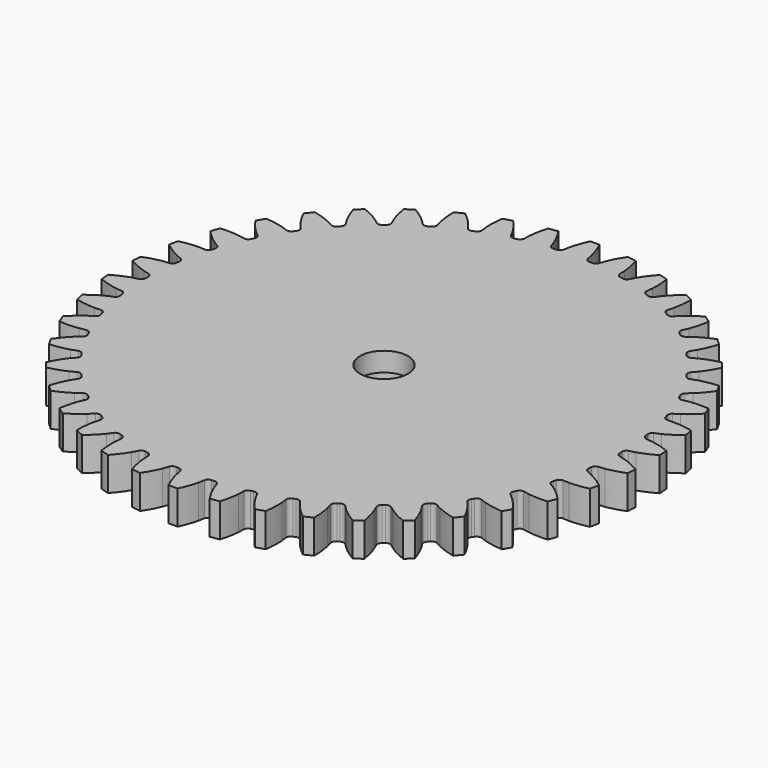
from build123d import *

# Parameters (mm, degrees)
EXTRUDE002_DEPTH                          = 3
EXTRUDE002_ONTO_SKETCH001_PLACEMENT_ANGLE = 4.25
CYLINDER008_R                             = 5
CYLINDER008_DEPTH                         = 10
EXTRUDE001_DEPTH                          = 7
EXTRUDE001_PLACEMENT_ANGLE                = 4.25
CUT002_PLACEMENT_ANGLE                    = 180


with BuildPart() as extrude002:
    # Sketch001 as drawn → Extrude002 (new)
    with BuildSketch(Plane.XY):
        with BuildLine():
            Line((0, -7), (30, -3.5))
            ThreePointArc((30, -3.5), (33.5, 0), (30, 3.5))
            Line((0, 7), (30, 3.5))
            ThreePointArc((0, 7), (-7, 0), (0, -7))
        make_face()
    extrude(amount=-EXTRUDE002_DEPTH)


with BuildPart() as extrude002_1:
    # Extrude002 onto Sketch001 placement: moved
    add(extrude002.part.moved(Location((79.5, 0, 45))).rotate(Axis((79.5, 0, 45), (0, 0, 1)), EXTRUDE002_ONTO_SKETCH001_PLACEMENT_ANGLE))


with BuildPart() as cylinder008:
    # Cylinder008 → Cylinder008 (new body)
    with BuildSketch(Plane(origin=(79.5, 0, 36.5), x_dir=(1, 0, 0), z_dir=(0, 0, 1))):
        Circle(CYLINDER008_R)
    extrude(amount=CYLINDER008_DEPTH)


with BuildPart() as pan_gear:
    # InvoluteGear003 → Extrude001 (new body)
    with BuildSketch(Plane.XY):
        with BuildLine():
            add(Edge.make_bspline(
                [(49.935412, -2.540601), (50.258673, -2.50404), (50.696663, -2.434919), (51.244037, -2.305344)],
                knots=[0, 0, 0, 0, 1, 1, 1, 1], degree=3))
            add(Edge.make_bspline(
                [(51.244037, -2.305344), (52.193371, -2.080339), (53.460774, -1.67639), (54.993062, -0.9546)],
                knots=[0, 0, 0, 0, 1, 1, 1, 1], degree=3))
            ThreePointArc((54.993062, -0.9546), (55.001347, 0), (54.993062, 0.9546))
            add(Edge.make_bspline(
                [(54.993062, 0.9546), (53.460774, 1.67639), (52.193371, 2.080339), (51.244037, 2.305344)],
                knots=[0, 0, 0, 0, 1, 1, 1, 1], degree=3))
            add(Edge.make_bspline(
                [(51.244037, 2.305344), (50.696663, 2.434919), (50.258673, 2.50404), (49.935569, 2.540575)],
                knots=[0, 0, 0, 0, 1, 1, 1, 1], degree=3))
            ThreePointArc((49.935569, 2.540575), (49.449291, 2.871554), (49.25592, 3.427092))
            ThreePointArc((49.25592, 3.427092), (49.236937, 3.689798), (49.216554, 3.9524))
            ThreePointArc((49.216554, 3.9524), (49.324919, 4.530492), (49.756331, 4.930262))
            add(Edge.make_bspline(
                [(49.756331, 4.930262), (50.070533, 5.014594), (50.493329, 5.148223), (51.015277, 5.357932)],
                knots=[0, 0, 0, 0, 1, 1, 1, 1], degree=3))
            add(Edge.make_bspline(
                [(51.015277, 5.357932), (51.920473, 5.721915), (53.113514, 6.310249), (54.521111, 7.252352)],
                knots=[0, 0, 0, 0, 1, 1, 1, 1], degree=3))
            ThreePointArc((54.521111, 7.252352), (54.387027, 8.197525), (54.236559, 9.140229))
            add(Edge.make_bspline(
                [(54.236559, 9.140229), (52.613808, 9.625581), (51.300356, 9.836122), (50.32809, 9.917123)],
                knots=[0, 0, 0, 0, 1, 1, 1, 1], degree=3))
            add(Edge.make_bspline(
                [(50.32809, 9.917123), (49.767517, 9.963669), (49.324118, 9.966739), (48.999177, 9.954709)],
                knots=[0, 0, 0, 0, 1, 1, 1, 1], degree=3))
            ThreePointArc((48.999177, 9.954709), (48.469, 10.209516), (48.194991, 10.730028))
            ThreePointArc((48.194991, 10.730028), (48.137066, 10.986971), (48.077771, 11.243602))
            ThreePointArc((48.077771, 11.243602), (48.098766, 11.831387), (48.465777, 12.290991))
            add(Edge.make_bspline(
                [(48.465777, 12.290991), (48.7639, 12.421211), (49.162058, 12.616361), (49.64692, 12.901521)],
                knots=[0, 0, 0, 0, 1, 1, 1, 1], degree=3))
            add(Edge.make_bspline(
                [(49.64692, 12.901521), (50.487757, 13.39635), (51.579786, 14.155927), (52.831248, 15.2973)],
                knots=[0, 0, 0, 0, 1, 1, 1, 1], degree=3))
            ThreePointArc((52.831248, 15.2973), (52.557791, 16.211932), (52.268501, 17.12168))
            add(Edge.make_bspline(
                [(52.268501, 17.12168), (50.591537, 17.359752), (49.261375, 17.372182), (48.287896, 17.307369)],
                knots=[0, 0, 0, 0, 1, 1, 1, 1], degree=3))
            add(Edge.make_bspline(
                [(48.287896, 17.307369), (47.726648, 17.269846), (47.287743, 17.206797), (46.968224, 17.146472)],
                knots=[0, 0, 0, 0, 1, 1, 1, 1], degree=3))
            ThreePointArc((46.968224, 17.146472), (46.405992, 17.319413), (46.057465, 17.793273))
            ThreePointArc((46.057465, 17.793273), (45.961891, 18.038713), (45.86501, 18.28364))
            ThreePointArc((45.86501, 18.28364), (45.798166, 18.86799), (46.092577, 19.37716))
            add(Edge.make_bspline(
                [(46.092577, 19.37716), (46.367962, 19.550359), (46.732587, 19.802672), (47.169533, 20.156911)],
                knots=[0, 0, 0, 0, 1, 1, 1, 1], degree=3))
            add(Edge.make_bspline(
                [(47.169533, 20.156911), (47.927228, 20.771534), (48.893851, 21.685385), (49.961223, 23.00053)],
                knots=[0, 0, 0, 0, 1, 1, 1, 1], degree=3))
            ThreePointArc((49.961223, 23.00053), (49.554501, 23.86419), (49.132851, 24.720661))
            add(Edge.make_bspline(
                [(49.132851, 24.720661), (47.439134, 24.706135), (46.121977, 24.520176), (45.169031, 24.310998)],
                knots=[0, 0, 0, 0, 1, 1, 1, 1], degree=3))
            add(Edge.make_bspline(
                [(45.169031, 24.310998), (44.619643, 24.190244), (44.195038, 24.062483), (43.888079, 23.95521)],
                knots=[0, 0, 0, 0, 1, 1, 1, 1], degree=3))
            ThreePointArc((43.888079, 23.95521), (43.306351, 24.042424), (42.891091, 24.459046))
            ThreePointArc((42.891091, 24.459046), (42.760004, 24.6875), (42.6277, 24.915252))
            ThreePointArc((42.6277, 24.915252), (42.47451, 25.483112), (42.689745, 26.030476))
            add(Edge.make_bspline(
                [(42.689745, 26.030476), (42.936241, 26.242784), (43.259188, 26.546623), (43.638457, 26.962029)],
                knots=[0, 0, 0, 0, 1, 1, 1, 1], degree=3))
            add(Edge.make_bspline(
                [(43.638457, 26.962029), (44.296084, 27.682716), (45.115708, 28.730428), (45.975146, 30.189967)],
                knots=[0, 0, 0, 0, 1, 1, 1, 1], degree=3))
            ThreePointArc((45.975146, 30.189967), (45.444246, 30.983362), (44.899655, 31.767423))
            add(Edge.make_bspline(
                [(44.899655, 31.767423), (43.22702, 31.500624), (41.95229, 31.12043), (41.041164, 30.771559)],
                knots=[0, 0, 0, 0, 1, 1, 1, 1], degree=3))
            add(Edge.make_bspline(
                [(41.041164, 30.771559), (40.51591, 30.570272), (40.115089, 30.380654), (39.827547, 30.228829)],
                knots=[0, 0, 0, 0, 1, 1, 1, 1], degree=3))
            ThreePointArc((39.827547, 30.228829), (39.239317, 30.228367), (38.766602, 30.578444))
            ThreePointArc((38.766602, 30.578444), (38.602929, 30.784809), (38.438159, 30.990298))
            ThreePointArc((38.438159, 30.990298), (38.202044, 31.528984), (38.333295, 32.102313))
            add(Edge.make_bspline(
                [(38.333295, 32.102313), (38.545394, 32.348988), (38.819449, 32.697566), (39.13257, 33.16486)],
                knots=[0, 0, 0, 0, 1, 1, 1, 1], degree=3))
            add(Edge.make_bspline(
                [(39.13257, 33.16486), (39.675439, 33.975511), (40.329755, 35.13368), (40.96206, 36.70501)],
                knots=[0, 0, 0, 0, 1, 1, 1, 1], degree=3))
            ThreePointArc((40.96206, 36.70501), (40.31884, 37.410417), (39.663474, 38.104553))
            add(Edge.make_bspline(
                [(39.663474, 38.104553), (38.049286, 37.591441), (36.845458, 37.025505), (35.996505, 36.544734)],
                knots=[0, 0, 0, 0, 1, 1, 1, 1], degree=3))
            add(Edge.make_bspline(
                [(35.996505, 36.544734), (35.507118, 36.26741), (35.139035, 36.020171), (34.877333, 35.827186)],
                knots=[0, 0, 0, 0, 1, 1, 1, 1], degree=3))
            ThreePointArc((34.877333, 35.827186), (34.295742, 35.739058), (33.77613, 36.01477))
            ThreePointArc((33.77613, 36.01477), (33.583529, 36.194436), (33.389972, 36.373072))
            ThreePointArc((33.389972, 36.373072), (33.076208, 36.870551), (33.120542, 37.457038))
            add(Edge.make_bspline(
                [(33.120542, 37.457038), (33.293508, 37.73257), (33.512549, 38.1181), (33.752525, 38.626843)],
                knots=[0, 0, 0, 0, 1, 1, 1, 1], degree=3))
            add(Edge.make_bspline(
                [(33.752525, 38.626843), (34.168509, 39.50935), (34.642901, 40.752104), (35.03395, 42.400124)],
                knots=[0, 0, 0, 0, 1, 1, 1, 1], degree=3))
            ThreePointArc((35.03395, 42.400124), (34.292779, 43.001785), (33.541277, 43.590491))
            add(Edge.make_bspline(
                [(33.541277, 43.590491), (32.021593, 42.842528), (30.91556, 42.103491), (30.147744, 41.50156)],
                knots=[0, 0, 0, 0, 1, 1, 1, 1], degree=3))
            add(Edge.make_bspline(
                [(30.147744, 41.50156), (29.705156, 41.154395), (29.378033, 40.855057), (29.148017, 40.625222)],
                knots=[0, 0, 0, 0, 1, 1, 1, 1], degree=3))
            ThreePointArc((29.148017, 40.625222), (28.586057, 40.451397), (28.031156, 40.646586))
            ThreePointArc((28.031156, 40.646586), (27.813928, 40.795539), (27.595908, 40.943332))
            ThreePointArc((27.595908, 40.943332), (27.211503, 41.38849), (27.167931, 41.975034))
            add(Edge.make_bspline(
                [(27.167931, 41.975034), (27.297899, 42.273268), (27.457033, 42.687139), (27.618505, 43.225966)],
                knots=[0, 0, 0, 0, 1, 1, 1, 1], degree=3))
            add(Edge.make_bspline(
                [(27.618505, 43.225966), (27.898312, 44.160616), (28.182183, 45.460193), (28.323239, 47.148089)],
                knots=[0, 0, 0, 0, 1, 1, 1, 1], degree=3))
            ThreePointArc((28.323239, 47.148089), (27.500673, 47.632564), (26.669823, 48.102689))
            add(Edge.make_bspline(
                [(26.669823, 48.102689), (25.278591, 47.136583), (24.295059, 46.240955), (23.625532, 45.53131)],
                knots=[0, 0, 0, 0, 1, 1, 1, 1], degree=3))
            add(Edge.make_bspline(
                [(23.625532, 45.53131), (23.23963, 45.122058), (22.960774, 44.777308), (22.767582, 44.515759)],
                knots=[0, 0, 0, 0, 1, 1, 1, 1], degree=3))
            ThreePointArc((22.767582, 44.515759), (22.237806, 44.260119), (21.660012, 44.370424))
            ThreePointArc((21.660012, 44.370424), (21.42301, 44.485338), (21.185398, 44.598986))
            ThreePointArc((21.185398, 44.598986), (20.738939, 44.981879), (20.608434, 45.555378))
            add(Edge.make_bspline(
                [(20.608434, 45.555378), (20.6925, 45.869651), (20.788173, 46.302617), (20.867533, 46.859492)],
                knots=[0, 0, 0, 0, 1, 1, 1, 1], degree=3))
            add(Edge.make_bspline(
                [(20.867533, 46.859492), (21.004913, 47.825406), (21.091921, 49.152777), (20.979834, 50.842843)],
                knots=[0, 0, 0, 0, 1, 1, 1, 1], degree=3))
            ThreePointArc((20.979834, 50.842843), (20.094248, 51.19931), (19.202609, 51.540353))
            add(Edge.make_bspline(
                [(19.202609, 51.540353), (17.970907, 50.377685), (17.131846, 49.345472), (16.575564, 48.543966)],
                knots=[0, 0, 0, 0, 1, 1, 1, 1], degree=3))
            add(Edge.make_bspline(
                [(16.575564, 48.543966), (16.254969, 48.081769), (16.03061, 47.699308), (15.878558, 47.411886)],
                knots=[0, 0, 0, 0, 1, 1, 1, 1], degree=3))
            ThreePointArc((15.878558, 47.411886), (15.3928, 47.080143), (14.805019, 47.1031))
            ThreePointArc((14.805019, 47.1031), (14.553537, 47.181407), (14.301641, 47.258372))
            ThreePointArc((14.301641, 47.258372), (13.803101, 47.570447), (13.588578, 48.11809))
            add(Edge.make_bspline(
                [(13.588578, 48.11809), (13.624866, 48.441382), (13.654939, 48.883771), (13.650415, 49.446255)],
                knots=[0, 0, 0, 0, 1, 1, 1, 1], degree=3))
            add(Edge.make_bspline(
                [(13.650415, 49.446255), (13.642299, 50.421855), (13.5305, 51.747369), (13.167774, 53.401853)],
                knots=[0, 0, 0, 0, 1, 1, 1, 1], degree=3))
            ThreePointArc((13.167774, 53.401853), (12.238951, 53.622348), (11.306441, 53.82669))
            add(Edge.make_bspline(
                [(11.306441, 53.82669), (10.261782, 52.493432), (9.585937, 51.347693), (9.155326, 50.472229)],
                knots=[0, 0, 0, 0, 1, 1, 1, 1], degree=3))
            add(Edge.make_bspline(
                [(9.155326, 50.472229), (8.907198, 49.967412), (8.742348, 49.555785), (8.634832, 49.248911)],
                knots=[0, 0, 0, 0, 1, 1, 1, 1], degree=3))
            ThreePointArc((8.634832, 49.248911), (8.203944, 48.848475), (7.619306, 48.783571))
            ThreePointArc((7.619306, 48.783571), (7.358962, 48.823522), (7.098408, 48.862084))
            ThreePointArc((7.098408, 48.862084), (6.558924, 49.09637), (6.265175, 49.605923))
            add(Edge.make_bspline(
                [(6.265175, 49.605923), (6.252874, 49.931013), (6.216677, 50.372943), (6.12837, 50.92847)],
                knots=[0, 0, 0, 0, 1, 1, 1, 1], degree=3))
            add(Edge.make_bspline(
                [(6.12837, 50.92847), (5.974938, 51.891964), (5.666831, 53.18601), (5.061568, 54.767953)],
                knots=[0, 0, 0, 0, 1, 1, 1, 1], degree=3))
            ThreePointArc((5.061568, 54.767953), (4.110256, 54.847552), (3.157706, 54.910628))
            add(Edge.make_bspline(
                [(3.157706, 54.910628), (2.323426, 53.436563), (1.825893, 52.202892), (1.530574, 51.273027)],
                knots=[0, 0, 0, 0, 1, 1, 1, 1], degree=3))
            add(Edge.make_bspline(
                [(1.530574, 51.273027), (1.360456, 50.736867), (1.258797, 50.305267), (1.198219, 49.985796)],
                knots=[0, 0, 0, 0, 1, 1, 1, 1], degree=3))
            ThreePointArc((1.198219, 49.985796), (0.831825, 49.525612), (0.263391, 49.374297))
            ThreePointArc((0.263391, 49.374297), (0, 49.375), (-0.263391, 49.374297))
            ThreePointArc((-0.263391, 49.374297), (-0.831768, 49.525561), (-1.198181, 49.985642))
            add(Edge.make_bspline(
                [(-1.198181, 49.985642), (-1.258797, 50.305267), (-1.360456, 50.736867), (-1.530574, 51.273027)],
                knots=[0, 0, 0, 0, 1, 1, 1, 1], degree=3))
            add(Edge.make_bspline(
                [(-1.530574, 51.273027), (-1.825893, 52.202892), (-2.323426, 53.436563), (-3.157706, 54.910628)],
                knots=[0, 0, 0, 0, 1, 1, 1, 1], degree=3))
            ThreePointArc((-3.157706, 54.910628), (-4.110256, 54.847552), (-5.061568, 54.767953))
            add(Edge.make_bspline(
                [(-5.061568, 54.767953), (-5.666831, 53.18601), (-5.974938, 51.891964), (-6.12837, 50.92847)],
                knots=[0, 0, 0, 0, 1, 1, 1, 1], degree=3))
            add(Edge.make_bspline(
                [(-6.12837, 50.92847), (-6.216677, 50.372943), (-6.252874, 49.931013), (-6.265161, 49.606082)],
                knots=[0, 0, 0, 0, 1, 1, 1, 1], degree=3))
            ThreePointArc((-6.265161, 49.606082), (-6.558875, 49.096429), (-7.098408, 48.862084))
            ThreePointArc((-7.098408, 48.862084), (-7.358962, 48.823522), (-7.619306, 48.783571))
            ThreePointArc((-7.619306, 48.783571), (-8.203879, 48.848433), (-8.634771, 49.248764))
            add(Edge.make_bspline(
                [(-8.634771, 49.248764), (-8.742348, 49.555785), (-8.907198, 49.967412), (-9.155326, 50.472229)],
                knots=[0, 0, 0, 0, 1, 1, 1, 1], degree=3))
            add(Edge.make_bspline(
                [(-9.155326, 50.472229), (-9.585937, 51.347693), (-10.261782, 52.493432), (-11.306441, 53.82669)],
                knots=[0, 0, 0, 0, 1, 1, 1, 1], degree=3))
            ThreePointArc((-11.306441, 53.82669), (-12.238951, 53.622348), (-13.167774, 53.401853))
            add(Edge.make_bspline(
                [(-13.167774, 53.401853), (-13.5305, 51.747369), (-13.642299, 50.421855), (-13.650415, 49.446255)],
                knots=[0, 0, 0, 0, 1, 1, 1, 1], degree=3))
            add(Edge.make_bspline(
                [(-13.650415, 49.446255), (-13.654939, 48.883771), (-13.624866, 48.441382), (-13.588587, 48.118249)],
                knots=[0, 0, 0, 0, 1, 1, 1, 1], degree=3))
            ThreePointArc((-13.588587, 48.118249), (-13.803061, 47.570513), (-14.301641, 47.258372))
            ThreePointArc((-14.301641, 47.258372), (-14.553537, 47.181407), (-14.805019, 47.1031))
            ThreePointArc((-14.805019, 47.1031), (-15.39273, 47.080112), (-15.878475, 47.41175))
            add(Edge.make_bspline(
                [(-15.878475, 47.41175), (-16.03061, 47.699308), (-16.254969, 48.081769), (-16.575564, 48.543966)],
                knots=[0, 0, 0, 0, 1, 1, 1, 1], degree=3))
            add(Edge.make_bspline(
                [(-16.575564, 48.543966), (-17.131846, 49.345472), (-17.970907, 50.377685), (-19.202609, 51.540353)],
                knots=[0, 0, 0, 0, 1, 1, 1, 1], degree=3))
            ThreePointArc((-19.202609, 51.540353), (-20.094248, 51.19931), (-20.979834, 50.842843))
            add(Edge.make_bspline(
                [(-20.979834, 50.842843), (-21.091921, 49.152777), (-21.004913, 47.825406), (-20.867533, 46.859492)],
                knots=[0, 0, 0, 0, 1, 1, 1, 1], degree=3))
            add(Edge.make_bspline(
                [(-20.867533, 46.859492), (-20.788173, 46.302617), (-20.6925, 45.869651), (-20.608466, 45.555534)],
                knots=[0, 0, 0, 0, 1, 1, 1, 1], degree=3))
            ThreePointArc((-20.608466, 45.555534), (-20.738909, 44.98195), (-21.185398, 44.598986))
            ThreePointArc((-21.185398, 44.598986), (-21.42301, 44.485338), (-21.660012, 44.370424))
            ThreePointArc((-21.660012, 44.370424), (-22.237732, 44.260098), (-22.767481, 44.515636))
            add(Edge.make_bspline(
                [(-22.767481, 44.515636), (-22.960774, 44.777308), (-23.23963, 45.122058), (-23.625532, 45.53131)],
                knots=[0, 0, 0, 0, 1, 1, 1, 1], degree=3))
            add(Edge.make_bspline(
                [(-23.625532, 45.53131), (-24.295059, 46.240955), (-25.278591, 47.136583), (-26.669823, 48.102689)],
                knots=[0, 0, 0, 0, 1, 1, 1, 1], degree=3))
            ThreePointArc((-26.669823, 48.102689), (-27.500673, 47.632564), (-28.323239, 47.148089))
            add(Edge.make_bspline(
                [(-28.323239, 47.148089), (-28.182183, 45.460193), (-27.898312, 44.160616), (-27.618505, 43.225966)],
                knots=[0, 0, 0, 0, 1, 1, 1, 1], degree=3))
            add(Edge.make_bspline(
                [(-27.618505, 43.225966), (-27.457033, 42.687139), (-27.297899, 42.273268), (-27.167987, 41.975184)],
                knots=[0, 0, 0, 0, 1, 1, 1, 1], degree=3))
            ThreePointArc((-27.167987, 41.975184), (-27.211484, 41.388565), (-27.595908, 40.943332))
            ThreePointArc((-27.595908, 40.943332), (-27.813928, 40.795539), (-28.031156, 40.646586))
            ThreePointArc((-28.031156, 40.646586), (-28.58598, 40.451387), (-29.147898, 40.625116))
            add(Edge.make_bspline(
                [(-29.147898, 40.625116), (-29.378033, 40.855057), (-29.705156, 41.154395), (-30.147744, 41.50156)],
                knots=[0, 0, 0, 0, 1, 1, 1, 1], degree=3))
            add(Edge.make_bspline(
                [(-30.147744, 41.50156), (-30.91556, 42.103491), (-32.021593, 42.842528), (-33.541277, 43.590491)],
                knots=[0, 0, 0, 0, 1, 1, 1, 1], degree=3))
            ThreePointArc((-33.541277, 43.590491), (-34.292779, 43.001785), (-35.03395, 42.400124))
            add(Edge.make_bspline(
                [(-35.03395, 42.400124), (-34.642901, 40.752104), (-34.168509, 39.50935), (-33.752525, 38.626843)],
                knots=[0, 0, 0, 0, 1, 1, 1, 1], degree=3))
            add(Edge.make_bspline(
                [(-33.752525, 38.626843), (-33.512549, 38.1181), (-33.293508, 37.73257), (-33.120619, 37.457177)],
                knots=[0, 0, 0, 0, 1, 1, 1, 1], degree=3))
            ThreePointArc((-33.120619, 37.457177), (-33.0762, 36.870628), (-33.389972, 36.373072))
            ThreePointArc((-33.389972, 36.373072), (-33.583529, 36.194436), (-33.77613, 36.01477))
            ThreePointArc((-33.77613, 36.01477), (-34.295665, 35.73906), (-34.877199, 35.827098))
            add(Edge.make_bspline(
                [(-34.877199, 35.827098), (-35.139035, 36.020171), (-35.507118, 36.26741), (-35.996505, 36.544734)],
                knots=[0, 0, 0, 0, 1, 1, 1, 1], degree=3))
            add(Edge.make_bspline(
                [(-35.996505, 36.544734), (-36.845458, 37.025505), (-38.049286, 37.591441), (-39.663474, 38.104553)],
                knots=[0, 0, 0, 0, 1, 1, 1, 1], degree=3))
            ThreePointArc((-39.663474, 38.104553), (-40.31884, 37.410417), (-40.96206, 36.70501))
            add(Edge.make_bspline(
                [(-40.96206, 36.70501), (-40.329755, 35.13368), (-39.675439, 33.975511), (-39.13257, 33.16486)],
                knots=[0, 0, 0, 0, 1, 1, 1, 1], degree=3))
            add(Edge.make_bspline(
                [(-39.13257, 33.16486), (-38.819449, 32.697566), (-38.545394, 32.348988), (-38.333392, 32.10244)],
                knots=[0, 0, 0, 0, 1, 1, 1, 1], degree=3))
            ThreePointArc((-38.333392, 32.10244), (-38.202048, 31.529061), (-38.438159, 30.990298))
            ThreePointArc((-38.438159, 30.990298), (-38.602929, 30.784809), (-38.766602, 30.578444))
            ThreePointArc((-38.766602, 30.578444), (-39.239241, 30.22838), (-39.827402, 30.228762))
            add(Edge.make_bspline(
                [(-39.827402, 30.228762), (-40.115089, 30.380654), (-40.51591, 30.570272), (-41.041164, 30.771559)],
                knots=[0, 0, 0, 0, 1, 1, 1, 1], degree=3))
            add(Edge.make_bspline(
                [(-41.041164, 30.771559), (-41.95229, 31.12043), (-43.22702, 31.500624), (-44.899655, 31.767423)],
                knots=[0, 0, 0, 0, 1, 1, 1, 1], degree=3))
            ThreePointArc((-44.899655, 31.767423), (-45.444246, 30.983362), (-45.975146, 30.189967))
            add(Edge.make_bspline(
                [(-45.975146, 30.189967), (-45.115708, 28.730428), (-44.296084, 27.682716), (-43.638457, 26.962029)],
                knots=[0, 0, 0, 0, 1, 1, 1, 1], degree=3))
            add(Edge.make_bspline(
                [(-43.638457, 26.962029), (-43.259188, 26.546623), (-42.936241, 26.242784), (-42.68986, 26.030586)],
                knots=[0, 0, 0, 0, 1, 1, 1, 1], degree=3))
            ThreePointArc((-42.68986, 26.030586), (-42.474525, 25.483188), (-42.6277, 24.915252))
            ThreePointArc((-42.6277, 24.915252), (-42.760004, 24.6875), (-42.891091, 24.459046))
            ThreePointArc((-42.891091, 24.459046), (-43.306278, 24.042449), (-43.887926, 23.955166))
            add(Edge.make_bspline(
                [(-43.887926, 23.955166), (-44.195038, 24.062483), (-44.619643, 24.190244), (-45.169031, 24.310998)],
                knots=[0, 0, 0, 0, 1, 1, 1, 1], degree=3))
            add(Edge.make_bspline(
                [(-45.169031, 24.310998), (-46.121977, 24.520176), (-47.439134, 24.706135), (-49.132851, 24.720661)],
                knots=[0, 0, 0, 0, 1, 1, 1, 1], degree=3))
            ThreePointArc((-49.132851, 24.720661), (-49.554501, 23.86419), (-49.961223, 23.00053))
            add(Edge.make_bspline(
                [(-49.961223, 23.00053), (-48.893851, 21.685385), (-47.927228, 20.771534), (-47.169533, 20.156911)],
                knots=[0, 0, 0, 0, 1, 1, 1, 1], degree=3))
            add(Edge.make_bspline(
                [(-47.169533, 20.156911), (-46.732587, 19.802672), (-46.367962, 19.550359), (-46.092707, 19.377253)],
                knots=[0, 0, 0, 0, 1, 1, 1, 1], degree=3))
            ThreePointArc((-46.092707, 19.377253), (-45.798192, 18.868062), (-45.86501, 18.28364))
            ThreePointArc((-45.86501, 18.28364), (-45.961891, 18.038713), (-46.057465, 17.793273))
            ThreePointArc((-46.057465, 17.793273), (-46.405923, 17.319449), (-46.968066, 17.146451))
            add(Edge.make_bspline(
                [(-46.968066, 17.146451), (-47.287743, 17.206797), (-47.726648, 17.269846), (-48.287896, 17.307369)],
                knots=[0, 0, 0, 0, 1, 1, 1, 1], degree=3))
            add(Edge.make_bspline(
                [(-48.287896, 17.307369), (-49.261375, 17.372182), (-50.591537, 17.359752), (-52.268501, 17.12168)],
                knots=[0, 0, 0, 0, 1, 1, 1, 1], degree=3))
            ThreePointArc((-52.268501, 17.12168), (-52.557791, 16.211932), (-52.831248, 15.2973))
            add(Edge.make_bspline(
                [(-52.831248, 15.2973), (-51.579786, 14.155927), (-50.487757, 13.39635), (-49.64692, 12.901521)],
                knots=[0, 0, 0, 0, 1, 1, 1, 1], degree=3))
            add(Edge.make_bspline(
                [(-49.64692, 12.901521), (-49.162058, 12.616361), (-48.7639, 12.421211), (-48.465919, 12.291063)],
                knots=[0, 0, 0, 0, 1, 1, 1, 1], degree=3))
            ThreePointArc((-48.465919, 12.291063), (-48.098803, 11.831455), (-48.077771, 11.243602))
            ThreePointArc((-48.077771, 11.243602), (-48.137066, 10.986971), (-48.194991, 10.730028))
            ThreePointArc((-48.194991, 10.730028), (-48.468937, 10.209561), (-48.999017, 9.954712))
            add(Edge.make_bspline(
                [(-48.999017, 9.954712), (-49.324118, 9.966739), (-49.767517, 9.963669), (-50.32809, 9.917123)],
                knots=[0, 0, 0, 0, 1, 1, 1, 1], degree=3))
            add(Edge.make_bspline(
                [(-50.32809, 9.917123), (-51.300356, 9.836122), (-52.613808, 9.625581), (-54.236559, 9.140229)],
                knots=[0, 0, 0, 0, 1, 1, 1, 1], degree=3))
            ThreePointArc((-54.236559, 9.140229), (-54.387027, 8.197525), (-54.521111, 7.252352))
            add(Edge.make_bspline(
                [(-54.521111, 7.252352), (-53.113514, 6.310249), (-51.920473, 5.721915), (-51.015277, 5.357932)],
                knots=[0, 0, 0, 0, 1, 1, 1, 1], degree=3))
            add(Edge.make_bspline(
                [(-51.015277, 5.357932), (-50.493329, 5.148223), (-50.070533, 5.014594), (-49.756483, 4.930312)],
                knots=[0, 0, 0, 0, 1, 1, 1, 1], degree=3))
            ThreePointArc((-49.756483, 4.930312), (-49.324966, 4.530553), (-49.216554, 3.9524))
            ThreePointArc((-49.216554, 3.9524), (-49.236937, 3.689798), (-49.25592, 3.427092))
            ThreePointArc((-49.25592, 3.427092), (-49.449236, 2.871608), (-49.935412, 2.540601))
            add(Edge.make_bspline(
                [(-49.935412, 2.540601), (-50.258673, 2.50404), (-50.696663, 2.434919), (-51.244037, 2.305344)],
                knots=[0, 0, 0, 0, 1, 1, 1, 1], degree=3))
            add(Edge.make_bspline(
                [(-51.244037, 2.305344), (-52.193371, 2.080339), (-53.460774, 1.67639), (-54.993062, 0.9546)],
                knots=[0, 0, 0, 0, 1, 1, 1, 1], degree=3))
            ThreePointArc((-54.993062, 0.9546), (-55.001347, 0), (-54.993062, -0.9546))
            add(Edge.make_bspline(
                [(-54.993062, -0.9546), (-53.460774, -1.67639), (-52.193371, -2.080339), (-51.244037, -2.305344)],
                knots=[0, 0, 0, 0, 1, 1, 1, 1], degree=3))
            add(Edge.make_bspline(
                [(-51.244037, -2.305344), (-50.696663, -2.434919), (-50.258673, -2.50404), (-49.935569, -2.540575)],
                knots=[0, 0, 0, 0, 1, 1, 1, 1], degree=3))
            ThreePointArc((-49.935569, -2.540575), (-49.449291, -2.871554), (-49.25592, -3.427092))
            ThreePointArc((-49.25592, -3.427092), (-49.236937, -3.689798), (-49.216554, -3.9524))
            ThreePointArc((-49.216554, -3.9524), (-49.324919, -4.530492), (-49.756331, -4.930262))
            add(Edge.make_bspline(
                [(-49.756331, -4.930262), (-50.070533, -5.014594), (-50.493329, -5.148223), (-51.015277, -5.357932)],
                knots=[0, 0, 0, 0, 1, 1, 1, 1], degree=3))
            add(Edge.make_bspline(
                [(-51.015277, -5.357932), (-51.920473, -5.721915), (-53.113514, -6.310249), (-54.521111, -7.252352)],
                knots=[0, 0, 0, 0, 1, 1, 1, 1], degree=3))
            ThreePointArc((-54.521111, -7.252352), (-54.387027, -8.197525), (-54.236559, -9.140229))
            add(Edge.make_bspline(
                [(-54.236559, -9.140229), (-52.613808, -9.625581), (-51.300356, -9.836122), (-50.32809, -9.917123)],
                knots=[0, 0, 0, 0, 1, 1, 1, 1], degree=3))
            add(Edge.make_bspline(
                [(-50.32809, -9.917123), (-49.767517, -9.963669), (-49.324118, -9.966739), (-48.999177, -9.954709)],
                knots=[0, 0, 0, 0, 1, 1, 1, 1], degree=3))
            ThreePointArc((-48.999177, -9.954709), (-48.469, -10.209516), (-48.194991, -10.730028))
            ThreePointArc((-48.194991, -10.730028), (-48.137066, -10.986971), (-48.077771, -11.243602))
            ThreePointArc((-48.077771, -11.243602), (-48.098766, -11.831387), (-48.465777, -12.290991))
            add(Edge.make_bspline(
                [(-48.465777, -12.290991), (-48.7639, -12.421211), (-49.162058, -12.616361), (-49.64692, -12.901521)],
                knots=[0, 0, 0, 0, 1, 1, 1, 1], degree=3))
            add(Edge.make_bspline(
                [(-49.64692, -12.901521), (-50.487757, -13.39635), (-51.579786, -14.155927), (-52.831248, -15.2973)],
                knots=[0, 0, 0, 0, 1, 1, 1, 1], degree=3))
            ThreePointArc((-52.831248, -15.2973), (-52.557791, -16.211932), (-52.268501, -17.12168))
            add(Edge.make_bspline(
                [(-52.268501, -17.12168), (-50.591537, -17.359752), (-49.261375, -17.372182), (-48.287896, -17.307369)],
                knots=[0, 0, 0, 0, 1, 1, 1, 1], degree=3))
            add(Edge.make_bspline(
                [(-48.287896, -17.307369), (-47.726648, -17.269846), (-47.287743, -17.206797), (-46.968224, -17.146472)],
                knots=[0, 0, 0, 0, 1, 1, 1, 1], degree=3))
            ThreePointArc((-46.968224, -17.146472), (-46.405992, -17.319413), (-46.057465, -17.793273))
            ThreePointArc((-46.057465, -17.793273), (-45.961891, -18.038713), (-45.86501, -18.28364))
            ThreePointArc((-45.86501, -18.28364), (-45.798166, -18.86799), (-46.092577, -19.37716))
            add(Edge.make_bspline(
                [(-46.092577, -19.37716), (-46.367962, -19.550359), (-46.732587, -19.802672), (-47.169533, -20.156911)],
                knots=[0, 0, 0, 0, 1, 1, 1, 1], degree=3))
            add(Edge.make_bspline(
                [(-47.169533, -20.156911), (-47.927228, -20.771534), (-48.893851, -21.685385), (-49.961223, -23.00053)],
                knots=[0, 0, 0, 0, 1, 1, 1, 1], degree=3))
            ThreePointArc((-49.961223, -23.00053), (-49.554501, -23.86419), (-49.132851, -24.720661))
            add(Edge.make_bspline(
                [(-49.132851, -24.720661), (-47.439134, -24.706135), (-46.121977, -24.520176), (-45.169031, -24.310998)],
                knots=[0, 0, 0, 0, 1, 1, 1, 1], degree=3))
            add(Edge.make_bspline(
                [(-45.169031, -24.310998), (-44.619643, -24.190244), (-44.195038, -24.062483), (-43.888079, -23.95521)],
                knots=[0, 0, 0, 0, 1, 1, 1, 1], degree=3))
            ThreePointArc((-43.888079, -23.95521), (-43.306351, -24.042424), (-42.891091, -24.459046))
            ThreePointArc((-42.891091, -24.459046), (-42.760004, -24.6875), (-42.6277, -24.915252))
            ThreePointArc((-42.6277, -24.915252), (-42.47451, -25.483112), (-42.689745, -26.030476))
            add(Edge.make_bspline(
                [(-42.689745, -26.030476), (-42.936241, -26.242784), (-43.259188, -26.546623), (-43.638457, -26.962029)],
                knots=[0, 0, 0, 0, 1, 1, 1, 1], degree=3))
            add(Edge.make_bspline(
                [(-43.638457, -26.962029), (-44.296084, -27.682716), (-45.115708, -28.730428), (-45.975146, -30.189967)],
                knots=[0, 0, 0, 0, 1, 1, 1, 1], degree=3))
            ThreePointArc((-45.975146, -30.189967), (-45.444246, -30.983362), (-44.899655, -31.767423))
            add(Edge.make_bspline(
                [(-44.899655, -31.767423), (-43.22702, -31.500624), (-41.95229, -31.12043), (-41.041164, -30.771559)],
                knots=[0, 0, 0, 0, 1, 1, 1, 1], degree=3))
            add(Edge.make_bspline(
                [(-41.041164, -30.771559), (-40.51591, -30.570272), (-40.115089, -30.380654), (-39.827547, -30.228829)],
                knots=[0, 0, 0, 0, 1, 1, 1, 1], degree=3))
            ThreePointArc((-39.827547, -30.228829), (-39.239317, -30.228367), (-38.766602, -30.578444))
            ThreePointArc((-38.766602, -30.578444), (-38.602929, -30.784809), (-38.438159, -30.990298))
            ThreePointArc((-38.438159, -30.990298), (-38.202044, -31.528984), (-38.333295, -32.102313))
            add(Edge.make_bspline(
                [(-38.333295, -32.102313), (-38.545394, -32.348988), (-38.819449, -32.697566), (-39.13257, -33.16486)],
                knots=[0, 0, 0, 0, 1, 1, 1, 1], degree=3))
            add(Edge.make_bspline(
                [(-39.13257, -33.16486), (-39.675439, -33.975511), (-40.329755, -35.13368), (-40.96206, -36.70501)],
                knots=[0, 0, 0, 0, 1, 1, 1, 1], degree=3))
            ThreePointArc((-40.96206, -36.70501), (-40.31884, -37.410417), (-39.663474, -38.104553))
            add(Edge.make_bspline(
                [(-39.663474, -38.104553), (-38.049286, -37.591441), (-36.845458, -37.025505), (-35.996505, -36.544734)],
                knots=[0, 0, 0, 0, 1, 1, 1, 1], degree=3))
            add(Edge.make_bspline(
                [(-35.996505, -36.544734), (-35.507118, -36.26741), (-35.139035, -36.020171), (-34.877333, -35.827186)],
                knots=[0, 0, 0, 0, 1, 1, 1, 1], degree=3))
            ThreePointArc((-34.877333, -35.827186), (-34.295742, -35.739058), (-33.77613, -36.01477))
            ThreePointArc((-33.77613, -36.01477), (-33.583529, -36.194436), (-33.389972, -36.373072))
            ThreePointArc((-33.389972, -36.373072), (-33.076208, -36.870551), (-33.120542, -37.457038))
            add(Edge.make_bspline(
                [(-33.120542, -37.457038), (-33.293508, -37.73257), (-33.512549, -38.1181), (-33.752525, -38.626843)],
                knots=[0, 0, 0, 0, 1, 1, 1, 1], degree=3))
            add(Edge.make_bspline(
                [(-33.752525, -38.626843), (-34.168509, -39.50935), (-34.642901, -40.752104), (-35.03395, -42.400124)],
                knots=[0, 0, 0, 0, 1, 1, 1, 1], degree=3))
            ThreePointArc((-35.03395, -42.400124), (-34.292779, -43.001785), (-33.541277, -43.590491))
            add(Edge.make_bspline(
                [(-33.541277, -43.590491), (-32.021593, -42.842528), (-30.91556, -42.103491), (-30.147744, -41.50156)],
                knots=[0, 0, 0, 0, 1, 1, 1, 1], degree=3))
            add(Edge.make_bspline(
                [(-30.147744, -41.50156), (-29.705156, -41.154395), (-29.378033, -40.855057), (-29.148017, -40.625222)],
                knots=[0, 0, 0, 0, 1, 1, 1, 1], degree=3))
            ThreePointArc((-29.148017, -40.625222), (-28.586057, -40.451397), (-28.031156, -40.646586))
            ThreePointArc((-28.031156, -40.646586), (-27.813928, -40.795539), (-27.595908, -40.943332))
            ThreePointArc((-27.595908, -40.943332), (-27.211503, -41.38849), (-27.167931, -41.975034))
            add(Edge.make_bspline(
                [(-27.167931, -41.975034), (-27.297899, -42.273268), (-27.457033, -42.687139), (-27.618505, -43.225966)],
                knots=[0, 0, 0, 0, 1, 1, 1, 1], degree=3))
            add(Edge.make_bspline(
                [(-27.618505, -43.225966), (-27.898312, -44.160616), (-28.182183, -45.460193), (-28.323239, -47.148089)],
                knots=[0, 0, 0, 0, 1, 1, 1, 1], degree=3))
            ThreePointArc((-28.323239, -47.148089), (-27.500673, -47.632564), (-26.669823, -48.102689))
            add(Edge.make_bspline(
                [(-26.669823, -48.102689), (-25.278591, -47.136583), (-24.295059, -46.240955), (-23.625532, -45.53131)],
                knots=[0, 0, 0, 0, 1, 1, 1, 1], degree=3))
            add(Edge.make_bspline(
                [(-23.625532, -45.53131), (-23.23963, -45.122058), (-22.960774, -44.777308), (-22.767582, -44.515759)],
                knots=[0, 0, 0, 0, 1, 1, 1, 1], degree=3))
            ThreePointArc((-22.767582, -44.515759), (-22.237806, -44.260119), (-21.660012, -44.370424))
            ThreePointArc((-21.660012, -44.370424), (-21.42301, -44.485338), (-21.185398, -44.598986))
            ThreePointArc((-21.185398, -44.598986), (-20.738939, -44.981879), (-20.608434, -45.555378))
            add(Edge.make_bspline(
                [(-20.608434, -45.555378), (-20.6925, -45.869651), (-20.788173, -46.302617), (-20.867533, -46.859492)],
                knots=[0, 0, 0, 0, 1, 1, 1, 1], degree=3))
            add(Edge.make_bspline(
                [(-20.867533, -46.859492), (-21.004913, -47.825406), (-21.091921, -49.152777), (-20.979834, -50.842843)],
                knots=[0, 0, 0, 0, 1, 1, 1, 1], degree=3))
            ThreePointArc((-20.979834, -50.842843), (-20.094248, -51.19931), (-19.202609, -51.540353))
            add(Edge.make_bspline(
                [(-19.202609, -51.540353), (-17.970907, -50.377685), (-17.131846, -49.345472), (-16.575564, -48.543966)],
                knots=[0, 0, 0, 0, 1, 1, 1, 1], degree=3))
            add(Edge.make_bspline(
                [(-16.575564, -48.543966), (-16.254969, -48.081769), (-16.03061, -47.699308), (-15.878558, -47.411886)],
                knots=[0, 0, 0, 0, 1, 1, 1, 1], degree=3))
            ThreePointArc((-15.878558, -47.411886), (-15.3928, -47.080143), (-14.805019, -47.1031))
            ThreePointArc((-14.805019, -47.1031), (-14.553537, -47.181407), (-14.301641, -47.258372))
            ThreePointArc((-14.301641, -47.258372), (-13.803101, -47.570447), (-13.588578, -48.11809))
            add(Edge.make_bspline(
                [(-13.588578, -48.11809), (-13.624866, -48.441382), (-13.654939, -48.883771), (-13.650415, -49.446255)],
                knots=[0, 0, 0, 0, 1, 1, 1, 1], degree=3))
            add(Edge.make_bspline(
                [(-13.650415, -49.446255), (-13.642299, -50.421855), (-13.5305, -51.747369), (-13.167774, -53.401853)],
                knots=[0, 0, 0, 0, 1, 1, 1, 1], degree=3))
            ThreePointArc((-13.167774, -53.401853), (-12.238951, -53.622348), (-11.306441, -53.82669))
            add(Edge.make_bspline(
                [(-11.306441, -53.82669), (-10.261782, -52.493432), (-9.585937, -51.347693), (-9.155326, -50.472229)],
                knots=[0, 0, 0, 0, 1, 1, 1, 1], degree=3))
            add(Edge.make_bspline(
                [(-9.155326, -50.472229), (-8.907198, -49.967412), (-8.742348, -49.555785), (-8.634832, -49.248911)],
                knots=[0, 0, 0, 0, 1, 1, 1, 1], degree=3))
            ThreePointArc((-8.634832, -49.248911), (-8.203944, -48.848475), (-7.619306, -48.783571))
            ThreePointArc((-7.619306, -48.783571), (-7.358962, -48.823522), (-7.098408, -48.862084))
            ThreePointArc((-7.098408, -48.862084), (-6.558924, -49.09637), (-6.265175, -49.605923))
            add(Edge.make_bspline(
                [(-6.265175, -49.605923), (-6.252874, -49.931013), (-6.216677, -50.372943), (-6.12837, -50.92847)],
                knots=[0, 0, 0, 0, 1, 1, 1, 1], degree=3))
            add(Edge.make_bspline(
                [(-6.12837, -50.92847), (-5.974938, -51.891964), (-5.666831, -53.18601), (-5.061568, -54.767953)],
                knots=[0, 0, 0, 0, 1, 1, 1, 1], degree=3))
            ThreePointArc((-5.061568, -54.767953), (-4.110256, -54.847552), (-3.157706, -54.910628))
            add(Edge.make_bspline(
                [(-3.157706, -54.910628), (-2.323426, -53.436563), (-1.825893, -52.202892), (-1.530574, -51.273027)],
                knots=[0, 0, 0, 0, 1, 1, 1, 1], degree=3))
            add(Edge.make_bspline(
                [(-1.530574, -51.273027), (-1.360456, -50.736867), (-1.258797, -50.305267), (-1.198219, -49.985796)],
                knots=[0, 0, 0, 0, 1, 1, 1, 1], degree=3))
            ThreePointArc((-1.198219, -49.985796), (-0.831825, -49.525612), (-0.263391, -49.374297))
            ThreePointArc((-0.263391, -49.374297), (0, -49.375), (0.263391, -49.374297))
            ThreePointArc((0.263391, -49.374297), (0.831768, -49.525561), (1.198181, -49.985642))
            add(Edge.make_bspline(
                [(1.198181, -49.985642), (1.258797, -50.305267), (1.360456, -50.736867), (1.530574, -51.273027)],
                knots=[0, 0, 0, 0, 1, 1, 1, 1], degree=3))
            add(Edge.make_bspline(
                [(1.530574, -51.273027), (1.825893, -52.202892), (2.323426, -53.436563), (3.157706, -54.910628)],
                knots=[0, 0, 0, 0, 1, 1, 1, 1], degree=3))
            ThreePointArc((3.157706, -54.910628), (4.110256, -54.847552), (5.061568, -54.767953))
            add(Edge.make_bspline(
                [(5.061568, -54.767953), (5.666831, -53.18601), (5.974938, -51.891964), (6.12837, -50.92847)],
                knots=[0, 0, 0, 0, 1, 1, 1, 1], degree=3))
            add(Edge.make_bspline(
                [(6.12837, -50.92847), (6.216677, -50.372943), (6.252874, -49.931013), (6.265161, -49.606082)],
                knots=[0, 0, 0, 0, 1, 1, 1, 1], degree=3))
            ThreePointArc((6.265161, -49.606082), (6.558875, -49.096429), (7.098408, -48.862084))
            ThreePointArc((7.098408, -48.862084), (7.358962, -48.823522), (7.619306, -48.783571))
            ThreePointArc((7.619306, -48.783571), (8.203879, -48.848433), (8.634771, -49.248764))
            add(Edge.make_bspline(
                [(8.634771, -49.248764), (8.742348, -49.555785), (8.907198, -49.967412), (9.155326, -50.472229)],
                knots=[0, 0, 0, 0, 1, 1, 1, 1], degree=3))
            add(Edge.make_bspline(
                [(9.155326, -50.472229), (9.585937, -51.347693), (10.261782, -52.493432), (11.306441, -53.82669)],
                knots=[0, 0, 0, 0, 1, 1, 1, 1], degree=3))
            ThreePointArc((11.306441, -53.82669), (12.238951, -53.622348), (13.167774, -53.401853))
            add(Edge.make_bspline(
                [(13.167774, -53.401853), (13.5305, -51.747369), (13.642299, -50.421855), (13.650415, -49.446255)],
                knots=[0, 0, 0, 0, 1, 1, 1, 1], degree=3))
            add(Edge.make_bspline(
                [(13.650415, -49.446255), (13.654939, -48.883771), (13.624866, -48.441382), (13.588587, -48.118249)],
                knots=[0, 0, 0, 0, 1, 1, 1, 1], degree=3))
            ThreePointArc((13.588587, -48.118249), (13.803061, -47.570513), (14.301641, -47.258372))
            ThreePointArc((14.301641, -47.258372), (14.553537, -47.181407), (14.805019, -47.1031))
            ThreePointArc((14.805019, -47.1031), (15.39273, -47.080112), (15.878475, -47.41175))
            add(Edge.make_bspline(
                [(15.878475, -47.41175), (16.03061, -47.699308), (16.254969, -48.081769), (16.575564, -48.543966)],
                knots=[0, 0, 0, 0, 1, 1, 1, 1], degree=3))
            add(Edge.make_bspline(
                [(16.575564, -48.543966), (17.131846, -49.345472), (17.970907, -50.377685), (19.202609, -51.540353)],
                knots=[0, 0, 0, 0, 1, 1, 1, 1], degree=3))
            ThreePointArc((19.202609, -51.540353), (20.094248, -51.19931), (20.979834, -50.842843))
            add(Edge.make_bspline(
                [(20.979834, -50.842843), (21.091921, -49.152777), (21.004913, -47.825406), (20.867533, -46.859492)],
                knots=[0, 0, 0, 0, 1, 1, 1, 1], degree=3))
            add(Edge.make_bspline(
                [(20.867533, -46.859492), (20.788173, -46.302617), (20.6925, -45.869651), (20.608466, -45.555534)],
                knots=[0, 0, 0, 0, 1, 1, 1, 1], degree=3))
            ThreePointArc((20.608466, -45.555534), (20.738909, -44.98195), (21.185398, -44.598986))
            ThreePointArc((21.185398, -44.598986), (21.42301, -44.485338), (21.660012, -44.370424))
            ThreePointArc((21.660012, -44.370424), (22.237732, -44.260098), (22.767481, -44.515636))
            add(Edge.make_bspline(
                [(22.767481, -44.515636), (22.960774, -44.777308), (23.23963, -45.122058), (23.625532, -45.53131)],
                knots=[0, 0, 0, 0, 1, 1, 1, 1], degree=3))
            add(Edge.make_bspline(
                [(23.625532, -45.53131), (24.295059, -46.240955), (25.278591, -47.136583), (26.669823, -48.102689)],
                knots=[0, 0, 0, 0, 1, 1, 1, 1], degree=3))
            ThreePointArc((26.669823, -48.102689), (27.500673, -47.632564), (28.323239, -47.148089))
            add(Edge.make_bspline(
                [(28.323239, -47.148089), (28.182183, -45.460193), (27.898312, -44.160616), (27.618505, -43.225966)],
                knots=[0, 0, 0, 0, 1, 1, 1, 1], degree=3))
            add(Edge.make_bspline(
                [(27.618505, -43.225966), (27.457033, -42.687139), (27.297899, -42.273268), (27.167987, -41.975184)],
                knots=[0, 0, 0, 0, 1, 1, 1, 1], degree=3))
            ThreePointArc((27.167987, -41.975184), (27.211484, -41.388565), (27.595908, -40.943332))
            ThreePointArc((27.595908, -40.943332), (27.813928, -40.795539), (28.031156, -40.646586))
            ThreePointArc((28.031156, -40.646586), (28.58598, -40.451387), (29.147898, -40.625116))
            add(Edge.make_bspline(
                [(29.147898, -40.625116), (29.378033, -40.855057), (29.705156, -41.154395), (30.147744, -41.50156)],
                knots=[0, 0, 0, 0, 1, 1, 1, 1], degree=3))
            add(Edge.make_bspline(
                [(30.147744, -41.50156), (30.91556, -42.103491), (32.021593, -42.842528), (33.541277, -43.590491)],
                knots=[0, 0, 0, 0, 1, 1, 1, 1], degree=3))
            ThreePointArc((33.541277, -43.590491), (34.292779, -43.001785), (35.03395, -42.400124))
            add(Edge.make_bspline(
                [(35.03395, -42.400124), (34.642901, -40.752104), (34.168509, -39.50935), (33.752525, -38.626843)],
                knots=[0, 0, 0, 0, 1, 1, 1, 1], degree=3))
            add(Edge.make_bspline(
                [(33.752525, -38.626843), (33.512549, -38.1181), (33.293508, -37.73257), (33.120619, -37.457177)],
                knots=[0, 0, 0, 0, 1, 1, 1, 1], degree=3))
            ThreePointArc((33.120619, -37.457177), (33.0762, -36.870628), (33.389972, -36.373072))
            ThreePointArc((33.389972, -36.373072), (33.583529, -36.194436), (33.77613, -36.01477))
            ThreePointArc((33.77613, -36.01477), (34.295665, -35.73906), (34.877199, -35.827098))
            add(Edge.make_bspline(
                [(34.877199, -35.827098), (35.139035, -36.020171), (35.507118, -36.26741), (35.996505, -36.544734)],
                knots=[0, 0, 0, 0, 1, 1, 1, 1], degree=3))
            add(Edge.make_bspline(
                [(35.996505, -36.544734), (36.845458, -37.025505), (38.049286, -37.591441), (39.663474, -38.104553)],
                knots=[0, 0, 0, 0, 1, 1, 1, 1], degree=3))
            ThreePointArc((39.663474, -38.104553), (40.31884, -37.410417), (40.96206, -36.70501))
            add(Edge.make_bspline(
                [(40.96206, -36.70501), (40.329755, -35.13368), (39.675439, -33.975511), (39.13257, -33.16486)],
                knots=[0, 0, 0, 0, 1, 1, 1, 1], degree=3))
            add(Edge.make_bspline(
                [(39.13257, -33.16486), (38.819449, -32.697566), (38.545394, -32.348988), (38.333392, -32.10244)],
                knots=[0, 0, 0, 0, 1, 1, 1, 1], degree=3))
            ThreePointArc((38.333392, -32.10244), (38.202048, -31.529061), (38.438159, -30.990298))
            ThreePointArc((38.438159, -30.990298), (38.602929, -30.784809), (38.766602, -30.578444))
            ThreePointArc((38.766602, -30.578444), (39.239241, -30.22838), (39.827402, -30.228762))
            add(Edge.make_bspline(
                [(39.827402, -30.228762), (40.115089, -30.380654), (40.51591, -30.570272), (41.041164, -30.771559)],
                knots=[0, 0, 0, 0, 1, 1, 1, 1], degree=3))
            add(Edge.make_bspline(
                [(41.041164, -30.771559), (41.95229, -31.12043), (43.22702, -31.500624), (44.899655, -31.767423)],
                knots=[0, 0, 0, 0, 1, 1, 1, 1], degree=3))
            ThreePointArc((44.899655, -31.767423), (45.444246, -30.983362), (45.975146, -30.189967))
            add(Edge.make_bspline(
                [(45.975146, -30.189967), (45.115708, -28.730428), (44.296084, -27.682716), (43.638457, -26.962029)],
                knots=[0, 0, 0, 0, 1, 1, 1, 1], degree=3))
            add(Edge.make_bspline(
                [(43.638457, -26.962029), (43.259188, -26.546623), (42.936241, -26.242784), (42.68986, -26.030586)],
                knots=[0, 0, 0, 0, 1, 1, 1, 1], degree=3))
            ThreePointArc((42.68986, -26.030586), (42.474525, -25.483188), (42.6277, -24.915252))
            ThreePointArc((42.6277, -24.915252), (42.760004, -24.6875), (42.891091, -24.459046))
            ThreePointArc((42.891091, -24.459046), (43.306278, -24.042449), (43.887926, -23.955166))
            add(Edge.make_bspline(
                [(43.887926, -23.955166), (44.195038, -24.062483), (44.619643, -24.190244), (45.169031, -24.310998)],
                knots=[0, 0, 0, 0, 1, 1, 1, 1], degree=3))
            add(Edge.make_bspline(
                [(45.169031, -24.310998), (46.121977, -24.520176), (47.439134, -24.706135), (49.132851, -24.720661)],
                knots=[0, 0, 0, 0, 1, 1, 1, 1], degree=3))
            ThreePointArc((49.132851, -24.720661), (49.554501, -23.86419), (49.961223, -23.00053))
            add(Edge.make_bspline(
                [(49.961223, -23.00053), (48.893851, -21.685385), (47.927228, -20.771534), (47.169533, -20.156911)],
                knots=[0, 0, 0, 0, 1, 1, 1, 1], degree=3))
            add(Edge.make_bspline(
                [(47.169533, -20.156911), (46.732587, -19.802672), (46.367962, -19.550359), (46.092707, -19.377253)],
                knots=[0, 0, 0, 0, 1, 1, 1, 1], degree=3))
            ThreePointArc((46.092707, -19.377253), (45.798192, -18.868062), (45.86501, -18.28364))
            ThreePointArc((45.86501, -18.28364), (45.961891, -18.038713), (46.057465, -17.793273))
            ThreePointArc((46.057465, -17.793273), (46.405923, -17.319449), (46.968066, -17.146451))
            add(Edge.make_bspline(
                [(46.968066, -17.146451), (47.287743, -17.206797), (47.726648, -17.269846), (48.287896, -17.307369)],
                knots=[0, 0, 0, 0, 1, 1, 1, 1], degree=3))
            add(Edge.make_bspline(
                [(48.287896, -17.307369), (49.261375, -17.372182), (50.591537, -17.359752), (52.268501, -17.12168)],
                knots=[0, 0, 0, 0, 1, 1, 1, 1], degree=3))
            ThreePointArc((52.268501, -17.12168), (52.557791, -16.211932), (52.831248, -15.2973))
            add(Edge.make_bspline(
                [(52.831248, -15.2973), (51.579786, -14.155927), (50.487757, -13.39635), (49.64692, -12.901521)],
                knots=[0, 0, 0, 0, 1, 1, 1, 1], degree=3))
            add(Edge.make_bspline(
                [(49.64692, -12.901521), (49.162058, -12.616361), (48.7639, -12.421211), (48.465919, -12.291063)],
                knots=[0, 0, 0, 0, 1, 1, 1, 1], degree=3))
            ThreePointArc((48.465919, -12.291063), (48.098803, -11.831455), (48.077771, -11.243602))
            ThreePointArc((48.077771, -11.243602), (48.137066, -10.986971), (48.194991, -10.730028))
            ThreePointArc((48.194991, -10.730028), (48.468937, -10.209561), (48.999017, -9.954712))
            add(Edge.make_bspline(
                [(48.999017, -9.954712), (49.324118, -9.966739), (49.767517, -9.963669), (50.32809, -9.917123)],
                knots=[0, 0, 0, 0, 1, 1, 1, 1], degree=3))
            add(Edge.make_bspline(
                [(50.32809, -9.917123), (51.300356, -9.836122), (52.613808, -9.625581), (54.236559, -9.140229)],
                knots=[0, 0, 0, 0, 1, 1, 1, 1], degree=3))
            ThreePointArc((54.236559, -9.140229), (54.387027, -8.197525), (54.521111, -7.252352))
            add(Edge.make_bspline(
                [(54.521111, -7.252352), (53.113514, -6.310249), (51.920473, -5.721915), (51.015277, -5.357932)],
                knots=[0, 0, 0, 0, 1, 1, 1, 1], degree=3))
            add(Edge.make_bspline(
                [(51.015277, -5.357932), (50.493329, -5.148223), (50.070533, -5.014594), (49.756483, -4.930312)],
                knots=[0, 0, 0, 0, 1, 1, 1, 1], degree=3))
            ThreePointArc((49.756483, -4.930312), (49.324966, -4.530553), (49.216554, -3.9524))
            ThreePointArc((49.216554, -3.9524), (49.236937, -3.689798), (49.25592, -3.427092))
            ThreePointArc((49.25592, -3.427092), (49.449236, -2.871608), (49.935412, -2.540601))
        make_face()
    extrude(amount=EXTRUDE001_DEPTH)


with BuildPart() as pan_gear_1:
    # Extrude001 placement: moved
    add(pan_gear.part.moved(Location((79.5, 0, 38))).rotate(Axis((79.5, 0, 38), (0, 0, 1)), EXTRUDE001_PLACEMENT_ANGLE))

    # Cut001: cut Cylinder008
    add(cylinder008.part, mode=Mode.SUBTRACT)

    # Cut002: cut Extrude002
    add(extrude002_1.part, mode=Mode.SUBTRACT)


with BuildPart() as pan_gear_2:
    # Cut002 placement: moved
    add(pan_gear_1.part.moved(Location((0.5, 0, 35.5))).rotate(Axis((0.5, 0, 35.5), (1, 0, 0)), CUT002_PLACEMENT_ANGLE))


solid = pan_gear_2.part
